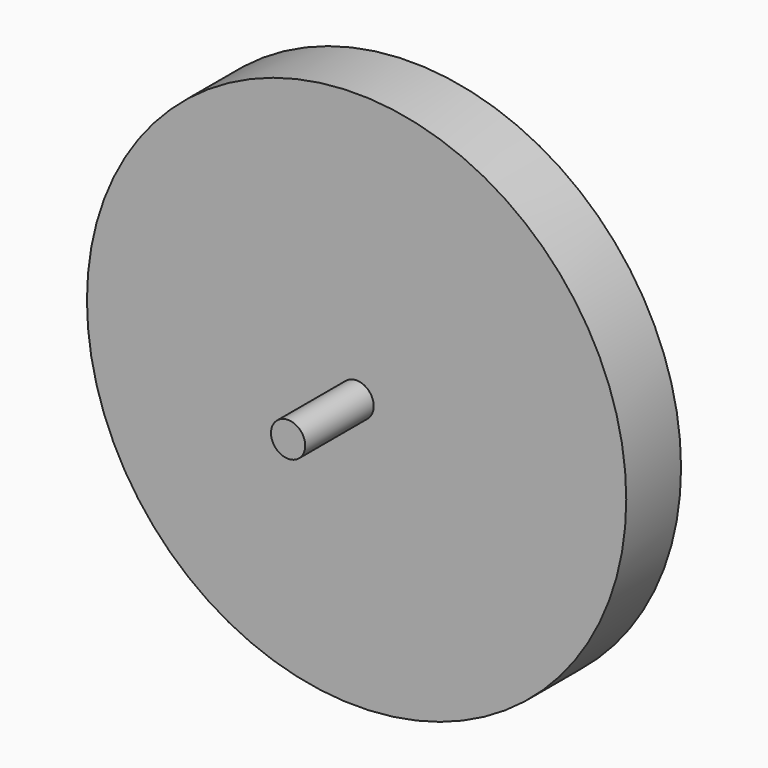
from build123d import *

# Parameters (mm, degrees)
F0_R     = 100
F0_R_2   = 6.35
F1_DEPTH = 25.4
F2_DEPTH = 57.15


with BuildPart() as f1:
    # F0 (on Front) → F1 (new body)
    with BuildSketch(Plane.XZ):
        Circle(F0_R)
        Circle(F0_R_2, mode=Mode.SUBTRACT)
        Circle(F0_R_2)
    extrude(amount=F1_DEPTH)


with BuildPart() as f2:
    # F0 (on Front) → F2 (new body)
    with BuildSketch(Plane.XZ):
        Circle(F0_R_2)
    extrude(amount=F2_DEPTH)


solid = Compound([f1.part, f2.part])
